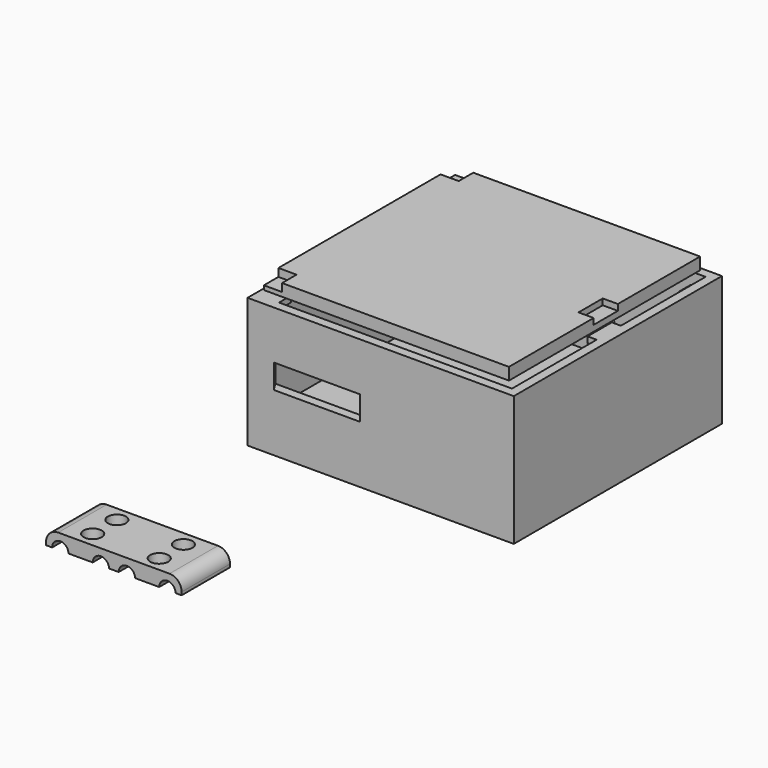
from build123d import *

# Parameters (mm, degrees)
BOX005_W                  = 4.5
BOX005_H                  = 4.5
BOX005_DEPTH              = 1.3
BOX007_W                  = 2.5
BOX007_H                  = 5
BOX007_DEPTH              = 1
BOX006_W                  = 4.5
BOX006_H                  = 4.5
BOX006_DEPTH              = 1.3
BOX002_W                  = 40.5
BOX002_H                  = 39.5
BOX002_DEPTH              = 2
BOX015_W                  = 4
BOX015_H                  = 4
BOX015_DEPTH              = 1
BOX014_W                  = 4
BOX014_H                  = 4
BOX014_DEPTH              = 1
CYLINDER003_R             = 2
CYLINDER003_DEPTH         = 5
CYLINDER003_PITCH_ANGLE   = 90
CYLINDER002_R             = 2
CYLINDER002_DEPTH         = 5
CYLINDER002_PITCH_ANGLE   = 90
CYLINDER001_R             = 2
CYLINDER001_DEPTH         = 5
CYLINDER001_PITCH_ANGLE   = 90
CYLINDER004_R             = 2
CYLINDER004_DEPTH         = 5
CYLINDER004_PITCH_ANGLE   = 90
FUSION007_PLACEMENT_ANGLE = -90
BOX013_W                  = 41
BOX013_H                  = 40
BOX013_DEPTH              = 2
BOX012_W                  = 44
BOX012_H                  = 43
BOX012_DEPTH              = 2
BOX010_W                  = 4
BOX010_H                  = 4
BOX010_DEPTH              = 1
BOX009_W                  = 2
BOX009_H                  = 5
BOX009_DEPTH              = 1
BOX011_W                  = 4
BOX011_H                  = 4
BOX011_DEPTH              = 1
BOX004_W                  = 4
BOX004_H                  = 4
BOX004_DEPTH              = 1
BOX003_W                  = 4
BOX003_H                  = 4
BOX003_DEPTH              = 1
BOX008_W                  = 2
BOX008_H                  = 5
BOX008_DEPTH              = 1
CYLINDER_R                = 9
CYLINDER_DEPTH            = 4
BOX_W                     = 41
BOX_H                     = 40
BOX_DEPTH                 = 15
BOX001_W                  = 44
BOX001_H                  = 43
BOX001_DEPTH              = 19.5
CYLINDER011_R             = 1.5
CYLINDER011_DEPTH         = 5
CYLINDER010_R             = 1.5
CYLINDER010_DEPTH         = 5
CYLINDER009_R             = 1.5
CYLINDER009_DEPTH         = 5
CYLINDER012_R             = 1.5
CYLINDER012_DEPTH         = 5
BOX017_W                  = 22.4
BOX017_H                  = 10
BOX017_DEPTH              = 2.5
CYLINDER007_R             = 1.35
CYLINDER007_DEPTH         = 10
CYLINDER007_ROLL_ANGLE    = -90
CYLINDER006_R             = 1.35
CYLINDER006_DEPTH         = 10
CYLINDER006_ROLL_ANGLE    = -90
CYLINDER005_R             = 1.35
CYLINDER005_DEPTH         = 10
CYLINDER005_ROLL_ANGLE    = -90
CYLINDER008_R             = 1.35
CYLINDER008_DEPTH         = 10
CYLINDER008_ROLL_ANGLE    = -90
BOX016_W                  = 22.4
BOX016_H                  = 10
BOX016_DEPTH              = 5
FILLET_R                  = 2


with BuildPart() as box005:
    # Box005 → Box005 (new body)
    with BuildSketch(Plane(origin=(18.5, 18.5, 31.7), x_dir=(1, 0, 0), z_dir=(0, 0, 1))):
        with Locations((2.25, 2.25)):
            Rectangle(BOX005_W, BOX005_H)
    extrude(amount=BOX005_DEPTH)


with BuildPart() as box007:
    # Box007 → Box007 (new body)
    with BuildSketch(Plane(origin=(58, 37.5, 32), x_dir=(1, 0, 0), z_dir=(0, 0, 1))):
        with Locations((1.25, 2.5)):
            Rectangle(BOX007_W, BOX007_H)
    extrude(amount=BOX007_DEPTH)


with BuildPart() as fusion001:
    # Box006 → Box006 (new body)
    with BuildSketch(Plane(origin=(18.5, 56.5, 31.7), x_dir=(1, 0, 0), z_dir=(0, 0, 1))):
        with Locations((2.25, 2.25)):
            Rectangle(BOX006_W, BOX006_H)
    extrude(amount=BOX006_DEPTH)

    # Fusion001: union Box005, Box007
    add(box005.part)
    add(box007.part)


with BuildPart() as cut:
    # Box002 → Box002 (new body)
    with BuildSketch(Plane(origin=(20, 20, 31), x_dir=(1, 0, 0), z_dir=(0, 0, 1))):
        with Locations((20.25, 19.75)):
            Rectangle(BOX002_W, BOX002_H)
    extrude(amount=BOX002_DEPTH)

    # Cut: cut Fusion001
    add(fusion001.part, mode=Mode.SUBTRACT)


with BuildPart() as cut_1:
    # Cut placement: moved
    add(cut.part.moved(Location((0, 0, 7))))


with BuildPart() as box015:
    # Box015 → Box015 (new body)
    with BuildSketch(Plane(origin=(58.5, 18.5, 30), x_dir=(1, 0, 0), z_dir=(0, 0, 1))):
        with Locations((2, 2)):
            Rectangle(BOX015_W, BOX015_H)
    extrude(amount=BOX015_DEPTH)


with BuildPart() as fusion008:
    # Box014 → Box014 (new body)
    with BuildSketch(Plane(origin=(58.5, 57.5, 30), x_dir=(1, 0, 0), z_dir=(0, 0, 1))):
        with Locations((2, 2)):
            Rectangle(BOX014_W, BOX014_H)
    extrude(amount=BOX014_DEPTH)

    # Fusion008: union Box015
    add(box015.part)


with BuildPart() as fusion008_1:
    # Fusion008 placement: moved
    add(fusion008.part.moved(Location((0, 0, 4))))


with BuildPart() as cylinder003:
    # Cylinder003 → Cylinder003 (new body)
    with BuildSketch(Plane.XY):
        Circle(CYLINDER003_R)
    extrude(amount=CYLINDER003_DEPTH)


with BuildPart() as cylinder003_1:
    # Cylinder003 pitch: moved
    add(cylinder003.part.rotate(Axis((0, 0, 0), (0, 1, 0)), CYLINDER003_PITCH_ANGLE))


with BuildPart() as cylinder003_2:
    # Cylinder003 placement: moved
    add(cylinder003_1.part.moved(Location((0, 18, 0))))


with BuildPart() as cylinder002:
    # Cylinder002 → Cylinder002 (new body)
    with BuildSketch(Plane.XY):
        Circle(CYLINDER002_R)
    extrude(amount=CYLINDER002_DEPTH)


with BuildPart() as cylinder002_1:
    # Cylinder002 pitch: moved
    add(cylinder002.part.rotate(Axis((0, 0, 0), (0, 1, 0)), CYLINDER002_PITCH_ANGLE))


with BuildPart() as cylinder002_2:
    # Cylinder002 placement: moved
    add(cylinder002_1.part.moved(Location((0, 12, 0))))


with BuildPart() as cylinder001:
    # Cylinder001 → Cylinder001 (new body)
    with BuildSketch(Plane.XY):
        Circle(CYLINDER001_R)
    extrude(amount=CYLINDER001_DEPTH)


with BuildPart() as cylinder001_1:
    # Cylinder001 pitch: moved
    add(cylinder001.part.rotate(Axis((0, 0, 0), (0, 1, 0)), CYLINDER001_PITCH_ANGLE))


with BuildPart() as cylinder001_2:
    # Cylinder001 placement: moved
    add(cylinder001_1.part.moved(Location((0, 6, 0))))


with BuildPart() as fusion007:
    # Cylinder004 → Cylinder004 (new body)
    with BuildSketch(Plane.XY):
        Circle(CYLINDER004_R)
    extrude(amount=CYLINDER004_DEPTH)


with BuildPart() as fusion007_1:
    # Cylinder004 pitch: moved
    add(fusion007.part.rotate(Axis((0, 0, 0), (0, 1, 0)), CYLINDER004_PITCH_ANGLE))


with BuildPart() as fusion007_2:
    # Cylinder004 placement: moved
    add(fusion007_1.part)

    # Fusion007: union Cylinder003, Cylinder002, Cylinder001
    add(cylinder003_2.part)
    add(cylinder002_2.part)
    add(cylinder001_2.part)


with BuildPart() as fusion007_3:
    # Fusion007 placement: moved
    add(fusion007_2.part.moved(Location((32, 63, 25))).rotate(Axis((32, 63, 25), (0, 0, 1)), FUSION007_PLACEMENT_ANGLE))


with BuildPart() as box013:
    # Box013 → Box013 (new body)
    with BuildSketch(Plane(origin=(20, 20, 32), x_dir=(1, 0, 0), z_dir=(0, 0, 1))):
        with Locations((20.5, 20)):
            Rectangle(BOX013_W, BOX013_H)
    extrude(amount=BOX013_DEPTH)


with BuildPart() as cut002:
    # Box012 → Box012 (new body)
    with BuildSketch(Plane(origin=(18.5, 18.5, 32), x_dir=(1, 0, 0), z_dir=(0, 0, 1))):
        with Locations((22, 21.5)):
            Rectangle(BOX012_W, BOX012_H)
    extrude(amount=BOX012_DEPTH)

    # Cut002: cut Box013
    add(box013.part, mode=Mode.SUBTRACT)


with BuildPart() as box010:
    # Box010 → Box010 (new body)
    with BuildSketch(Plane(origin=(18.5, 57.5, 32), x_dir=(1, 0, 0), z_dir=(0, 0, 1))):
        with Locations((2, 2)):
            Rectangle(BOX010_W, BOX010_H)
    extrude(amount=BOX010_DEPTH)


with BuildPart() as box009:
    # Box009 → Box009 (new body)
    with BuildSketch(Plane(origin=(59.5, 37.5, 32), x_dir=(1, 0, 0), z_dir=(0, 0, 1))):
        with Locations((1, 2.5)):
            Rectangle(BOX009_W, BOX009_H)
    extrude(amount=BOX009_DEPTH)


with BuildPart() as fusion005:
    # Box011 → Box011 (new body)
    with BuildSketch(Plane(origin=(18.5, 18.5, 32), x_dir=(1, 0, 0), z_dir=(0, 0, 1))):
        with Locations((2, 2)):
            Rectangle(BOX011_W, BOX011_H)
    extrude(amount=BOX011_DEPTH)

    # Fusion004: union Box010, Box009
    add(box010.part)
    add(box009.part)


with BuildPart() as fusion005_1:
    # Fusion004 placement: moved
    add(fusion005.part.moved(Location((0, 0, 1))))

    # Fusion005: union Cut002
    add(cut002.part)


with BuildPart() as fusion005_2:
    # Fusion005 placement: moved
    add(fusion005_1.part.moved(Location((0, 0, 3))))


with BuildPart() as box004:
    # Box004 → Box004 (new body)
    with BuildSketch(Plane(origin=(18.5, 57.5, 30), x_dir=(1, 0, 0), z_dir=(0, 0, 1))):
        with Locations((2, 2)):
            Rectangle(BOX004_W, BOX004_H)
    extrude(amount=BOX004_DEPTH)


with BuildPart() as box003:
    # Box003 → Box003 (new body)
    with BuildSketch(Plane(origin=(18.5, 18.5, 30), x_dir=(1, 0, 0), z_dir=(0, 0, 1))):
        with Locations((2, 2)):
            Rectangle(BOX003_W, BOX003_H)
    extrude(amount=BOX003_DEPTH)


with BuildPart() as fusion002:
    # Box008 → Box008 (new body)
    with BuildSketch(Plane(origin=(59, 37.5, 30), x_dir=(1, 0, 0), z_dir=(0, 0, 1))):
        with Locations((1, 2.5)):
            Rectangle(BOX008_W, BOX008_H)
    extrude(amount=BOX008_DEPTH)

    # Fusion002: union Box004, Box003
    add(box004.part)
    add(box003.part)


with BuildPart() as fusion002_1:
    # Fusion002 placement: moved
    add(fusion002.part.moved(Location((0, 0, 4))))


with BuildPart() as cylinder:
    # Cylinder → Cylinder (new body)
    with BuildSketch(Plane(origin=(30, 24, 25), x_dir=(1, 0, 0), z_dir=(0, 0, 1))):
        Circle(CYLINDER_R)
    extrude(amount=CYLINDER_DEPTH)


with BuildPart() as fusion:
    # Box → Box (new body)
    with BuildSketch(Plane(origin=(20, 20, 20), x_dir=(1, 0, 0), z_dir=(0, 0, 1))):
        with Locations((20.5, 20)):
            Rectangle(BOX_W, BOX_H)
    extrude(amount=BOX_DEPTH)

    # Fusion: union Cylinder
    add(cylinder.part)


with BuildPart() as fusion009:
    # Box001 → Box001 (new body)
    with BuildSketch(Plane(origin=(18.5, 18.5, 15.5), x_dir=(1, 0, 0), z_dir=(0, 0, 1))):
        with Locations((22, 21.5)):
            Rectangle(BOX001_W, BOX001_H)
    extrude(amount=BOX001_DEPTH)

    # Cut001: cut Fusion
    add(fusion.part, mode=Mode.SUBTRACT)

    # Fusion003: union Fusion002
    add(fusion002_1.part)

    # Fusion006: union Fusion005
    add(fusion005_2.part)

    # Cut003: cut Fusion007
    add(fusion007_3.part, mode=Mode.SUBTRACT)

    # Fusion009: union Fusion008
    add(fusion008_1.part)


with BuildPart() as cylinder011:
    # Cylinder011 → Cylinder011 (new body)
    with BuildSketch(Plane(origin=(16.7, 2.5, 0), x_dir=(1, 0, 0), z_dir=(0, 0, 1))):
        Circle(CYLINDER011_R)
    extrude(amount=CYLINDER011_DEPTH)


with BuildPart() as cylinder010:
    # Cylinder010 → Cylinder010 (new body)
    with BuildSketch(Plane(origin=(5.7, 7.5, 0), x_dir=(1, 0, 0), z_dir=(0, 0, 1))):
        Circle(CYLINDER010_R)
    extrude(amount=CYLINDER010_DEPTH)


with BuildPart() as cylinder009:
    # Cylinder009 → Cylinder009 (new body)
    with BuildSketch(Plane(origin=(5.7, 2.5, 0), x_dir=(1, 0, 0), z_dir=(0, 0, 1))):
        Circle(CYLINDER009_R)
    extrude(amount=CYLINDER009_DEPTH)


with BuildPart() as fusion011:
    # Cylinder012 → Cylinder012 (new body)
    with BuildSketch(Plane(origin=(16.7, 7.5, 0), x_dir=(1, 0, 0), z_dir=(0, 0, 1))):
        Circle(CYLINDER012_R)
    extrude(amount=CYLINDER012_DEPTH)

    # Fusion011: union Cylinder011, Cylinder010, Cylinder009
    add(cylinder011.part)
    add(cylinder010.part)
    add(cylinder009.part)


with BuildPart() as box017:
    # Box017 → Box017 (new body)
    with BuildSketch(Plane.XY):
        with Locations((11.2, 5)):
            Rectangle(BOX017_W, BOX017_H)
    extrude(amount=BOX017_DEPTH)


with BuildPart() as cylinder007:
    # Cylinder007 → Cylinder007 (new body)
    with BuildSketch(Plane.XY):
        Circle(CYLINDER007_R)
    extrude(amount=CYLINDER007_DEPTH)


with BuildPart() as cylinder007_1:
    # Cylinder007 roll: moved
    add(cylinder007.part.rotate(Axis((0, 0, 0), (1, 0, 0)), CYLINDER007_ROLL_ANGLE))


with BuildPart() as cylinder007_2:
    # Cylinder007 placement: moved
    add(cylinder007_1.part.moved(Location((13.35, 0, 2.5))))


with BuildPart() as cylinder006:
    # Cylinder006 → Cylinder006 (new body)
    with BuildSketch(Plane.XY):
        Circle(CYLINDER006_R)
    extrude(amount=CYLINDER006_DEPTH)


with BuildPart() as cylinder006_1:
    # Cylinder006 roll: moved
    add(cylinder006.part.rotate(Axis((0, 0, 0), (1, 0, 0)), CYLINDER006_ROLL_ANGLE))


with BuildPart() as cylinder006_2:
    # Cylinder006 placement: moved
    add(cylinder006_1.part.moved(Location((9.05, 0, 2.5))))


with BuildPart() as cylinder005:
    # Cylinder005 → Cylinder005 (new body)
    with BuildSketch(Plane.XY):
        Circle(CYLINDER005_R)
    extrude(amount=CYLINDER005_DEPTH)


with BuildPart() as cylinder005_1:
    # Cylinder005 roll: moved
    add(cylinder005.part.rotate(Axis((0, 0, 0), (1, 0, 0)), CYLINDER005_ROLL_ANGLE))


with BuildPart() as cylinder005_2:
    # Cylinder005 placement: moved
    add(cylinder005_1.part.moved(Location((2.35, 0, 2.5))))


with BuildPart() as fusion010:
    # Cylinder008 → Cylinder008 (new body)
    with BuildSketch(Plane.XY):
        Circle(CYLINDER008_R)
    extrude(amount=CYLINDER008_DEPTH)


with BuildPart() as fusion010_1:
    # Cylinder008 roll: moved
    add(fusion010.part.rotate(Axis((0, 0, 0), (1, 0, 0)), CYLINDER008_ROLL_ANGLE))


with BuildPart() as fusion010_2:
    # Cylinder008 placement: moved
    add(fusion010_1.part.moved(Location((20.05, 0, 2.5))))

    # Fusion010: union Cylinder007, Cylinder006, Cylinder005
    add(cylinder007_2.part)
    add(cylinder006_2.part)
    add(cylinder005_2.part)


with BuildPart() as fillet_body:
    # Box016 → Box016 (new body)
    with BuildSketch(Plane.XY):
        with Locations((11.2, 5)):
            Rectangle(BOX016_W, BOX016_H)
    extrude(amount=BOX016_DEPTH)

    # Cut004: cut Fusion010
    add(fusion010_2.part, mode=Mode.SUBTRACT)

    # Cut005: cut Box017
    add(box017.part, mode=Mode.SUBTRACT)

    # Cut006: cut Fusion011
    add(fusion011.part, mode=Mode.SUBTRACT)

    # Fillet
    fillet_edges = [fillet_body.edges().sort_by_distance(p)[0] for p in [
        (0, 5, 5),
        (22.4, 5, 5),
    ]]
    fillet(fillet_edges, radius=FILLET_R)


solid = Compound([cut_1.part, fusion009.part, fillet_body.part])
